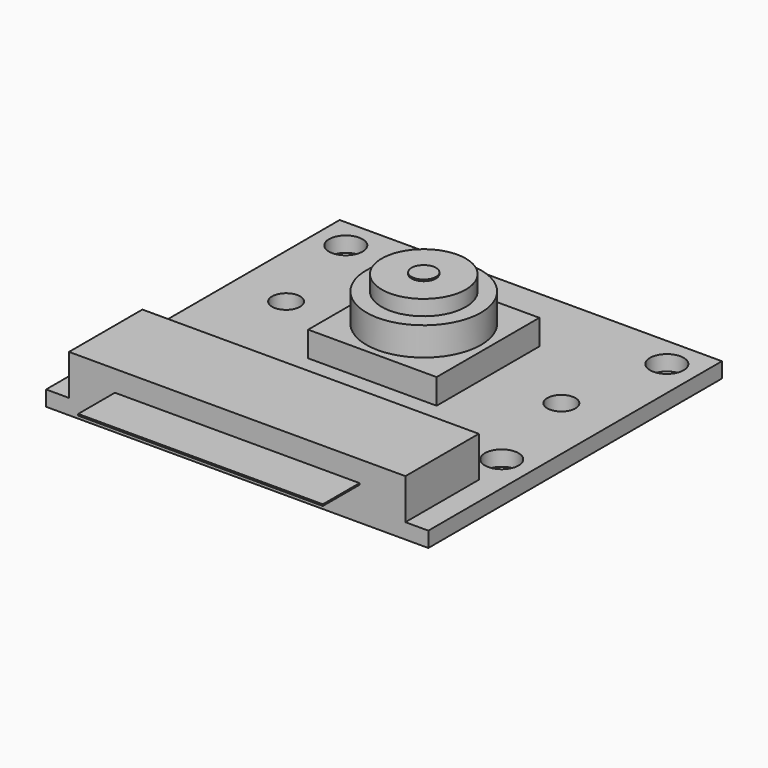
from build123d import *

# Parameters (mm, degrees)
F0_W      = 25
F0_H      = 24
F0_R      = 1.1
F1_DEPTH  = 1
F2_R      = 0.92
F3_DEPTH  = 1
F2_W      = 8.4
F2_H      = 8.4
F2_R_2    = 3.75
F2_R_3    = 2.75
F4_DEPTH  = 1.65
F5_DEPTH  = 3.51
F6_DEPTH  = 4.51
F7_R      = 0.8
F8_DEPTH  = 0.1
F9_W      = 22
F9_H      = 6
F10_DEPTH = 2.65
F12_W     = 16
F12_H     = 3
F13_DEPTH = 0.1


with BuildPart() as f1:
    # F0 (on Top) → F1 (new body)
    with BuildSketch(Plane.XY):
        Rectangle(F0_W, F0_H)
        with Locations((-10.5, -3.5)):
            Circle(F0_R, mode=Mode.SUBTRACT)
        with Locations((10.5, -3.5)):
            Circle(F0_R, mode=Mode.SUBTRACT)
        with Locations((-10.5, 10)):
            Circle(F0_R, mode=Mode.SUBTRACT)
        with Locations((10.5, 10)):
            Circle(F0_R, mode=Mode.SUBTRACT)
    extrude(amount=F1_DEPTH)

    # F2 (on face) → F3 (cut, through all)
    with BuildSketch(Plane.XY.offset(1)):
        with Locations((-9, 3.25)):
            Circle(F2_R)
        with Locations((9, 3.25)):
            Circle(F2_R)
    extrude(amount=-F3_DEPTH, mode=Mode.SUBTRACT)

    # F2 (on face) → F4 (join)
    with BuildSketch(Plane.XY.offset(1)):
        with Locations((0, 3.25)):
            Rectangle(F2_W, F2_H)
        with Locations((0, 3.25)):
            Circle(F2_R_2, mode=Mode.SUBTRACT)
        with Locations((0, 3.25)):
            Circle(F2_R_2)
        with Locations((0, 3.25)):
            Circle(F2_R_3, mode=Mode.SUBTRACT)
        with Locations((0, 3.25)):
            Circle(F2_R_3)
    extrude(amount=F4_DEPTH)

    # F2 (on face) → F5 (join)
    with BuildSketch(Plane.XY.offset(1)):
        with Locations((0, 3.25)):
            Circle(F2_R_2)
        with Locations((0, 3.25)):
            Circle(F2_R_3, mode=Mode.SUBTRACT)
        with Locations((0, 3.25)):
            Circle(F2_R_3)
    extrude(amount=F5_DEPTH)

    # F2 (on face) → F6 (join)
    with BuildSketch(Plane.XY.offset(1)):
        with Locations((0, 3.25)):
            Circle(F2_R_3)
    extrude(amount=F6_DEPTH)

    # F7 (on face) → F8 (join)
    with BuildSketch(Plane.XY.offset(5.51)):
        with Locations((0, 3.25)):
            Circle(F7_R)
    extrude(amount=F8_DEPTH)

    # F9 (on face) → F10 (join)
    with BuildSketch(Plane.XY.offset(1)):
        with Locations((0, -9)):
            Rectangle(F9_W, F9_H)
    extrude(amount=F10_DEPTH)

    # F12 (on offset) → F13 (join)
    with BuildSketch(Plane(origin=(0, 0, 2.275), x_dir=(1, 0, 0), z_dir=(0, 0, -1))):
        with Locations((0, 13.5)):
            Rectangle(F12_W, F12_H)
    extrude(amount=F13_DEPTH)


solid = f1.part
